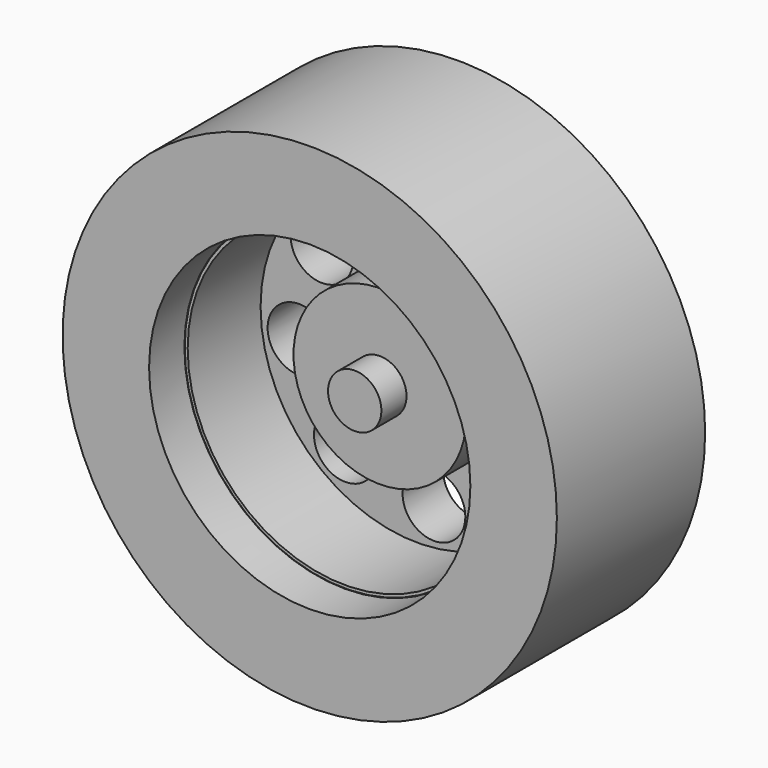
from build123d import *

# Parameters (mm, degrees)
F0_R      = 20
F0_R_2    = 2.54
F1_DEPTH  = 15
F2_R      = 13
F3_DEPTH  = 10.9
F4_R      = 6.985
F5_DEPTH  = 3.81
F6_R      = 2.159
F7_DEPTH  = 2.54
F8_R      = 19.238
F8_R_2    = 12.697305
F9_DEPTH  = 11.43
F10_R     = 3.175
F11_DEPTH = 6.35
F12_R     = 12.969206
F12_R_2   = 12.732754
F13_DEPTH = 11.43


with BuildPart() as f1:
    # F0 (on Front) → F1 (new body)
    with BuildSketch(Plane.XZ):
        Circle(F0_R)
        with Locations((-5.837628, -7.723867)):
            Circle(F0_R_2, mode=Mode.SUBTRACT)
        with Locations((-9.589425, -1.333773)):
            Circle(F0_R_2, mode=Mode.SUBTRACT)
        with Locations((1.333773, -9.589425)):
            Circle(F0_R_2, mode=Mode.SUBTRACT)
        with Locations((7.723867, -5.837628)):
            Circle(F0_R_2, mode=Mode.SUBTRACT)
        with Locations((-7.723867, 5.837628)):
            Circle(F0_R_2, mode=Mode.SUBTRACT)
        with Locations((-1.333773, 9.589425)):
            Circle(F0_R_2, mode=Mode.SUBTRACT)
        with Locations((9.589425, 1.333773)):
            Circle(F0_R_2, mode=Mode.SUBTRACT)
        with Locations((5.837628, 7.723867)):
            Circle(F0_R_2, mode=Mode.SUBTRACT)
    extrude(amount=-F1_DEPTH)

    # F2 (on face) → F3 (cut)
    with BuildSketch(Plane.XZ):
        Circle(F2_R)
    extrude(amount=-F3_DEPTH, mode=Mode.SUBTRACT)

    # F4 (on face) → F5 (join)
    with BuildSketch(Plane.XZ.offset(-10.9)):
        Circle(F4_R)
    extrude(amount=F5_DEPTH)

    # F6 (on face) → F7 (join)
    with BuildSketch(Plane.XZ.offset(-7.09)):
        Circle(F6_R)
    extrude(amount=F7_DEPTH)

    # F8 (on face) → F9 (cut)
    with BuildSketch(Plane(origin=(0, 15, 0), x_dir=(-1, 0, 0), z_dir=(0, 1, 0))):
        Circle(F8_R)
        Circle(F8_R_2, mode=Mode.SUBTRACT)
    extrude(amount=-F9_DEPTH, mode=Mode.SUBTRACT)

    # F10 (on face) → F11 (join)
    with BuildSketch(Plane(origin=(0, 15, 0), x_dir=(-1, 0, 0), z_dir=(0, 1, 0))):
        Circle(F10_R)
    extrude(amount=F11_DEPTH)


with BuildPart() as f13:
    # F12 (on face) → F13 (new body)
    with BuildSketch(Plane(origin=(0, 3.57, 0), x_dir=(-1, 0, 0), z_dir=(0, 1, 0))):
        Circle(F12_R)
        Circle(F12_R_2, mode=Mode.SUBTRACT)
    extrude(amount=F13_DEPTH)


solid = Compound([f1.part, f13.part])
